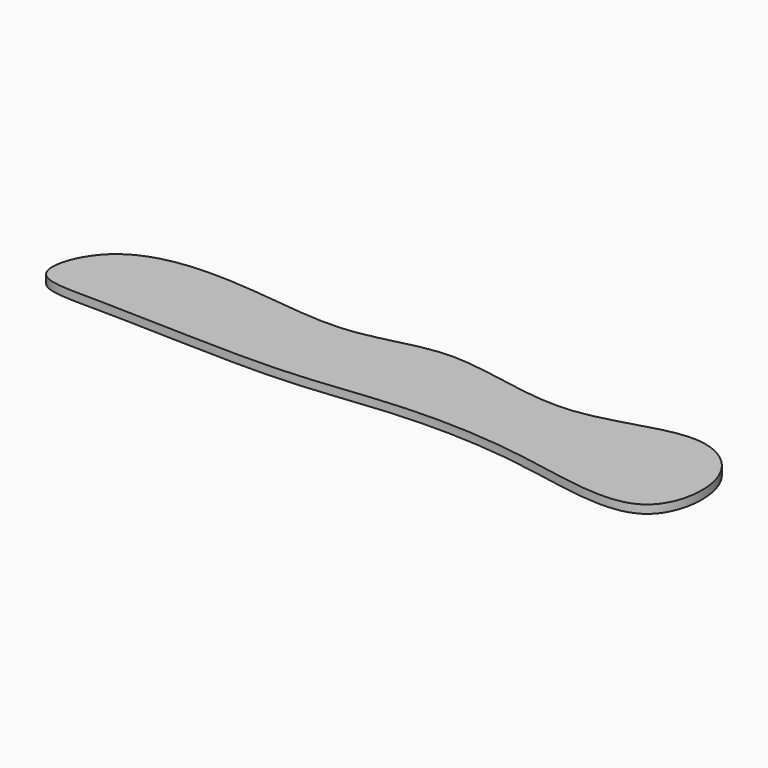
from build123d import *

# Parameters (mm, degrees)
F1_DEPTH = 190.5
F3_DEPTH = 25.4


with BuildPart() as f1:
    # F0 (on Front) → F1 (new body)
    with BuildSketch(Plane.XZ):
        with BuildLine():
            Line((-1.4379239916, 0.3391330266), (-123.6086697336, 29.1529889837))
            Line((-123.6086697336, 29.1529889837), (-125.0663191828, 22.972555497))
            Line((-125.0663191828, 22.972555497), (-2.8955734407, -5.84130046))
            Line((-2.8955734407, -5.84130046), (1.4773749068, -6.35))
            Line((1.4773749068, -6.35), (584.2, -6.35))
            Line((584.2, -6.35), (584.2, 0))
            Line((584.2, 0), (1.4773749068, 0))
            ThreePointArc((1.4773749068, 0), (0.0098958715, 0.0850681619), (-1.4379239916, 0.3391330266))
        make_face()
    extrude(amount=F1_DEPTH)

    # F2 (on Top) → F3 (intersect)
    with BuildSketch(Plane.XY):
        with BuildLine():
            add(Edge.make_bspline(
                [(93.6103910208, -73.8198235631), (111.4223616565, -57.1746445987), (173.812026806, -50.720912272), (266.1372814333, -70.7107200085), (334.9946843757, -37.680659464), (432.4729359265, -74.4506202524), (515.1980320962, -28.4380380283), (567.4424053365, -66.5141076568), (555.6833618765, -149.7582840756), (444.6431853337, -118.3353483175), (345.0116704353, -117.1199823575), (263.3982425642, -131.217081076), (131.2569333934, -123.2112342439), (67.1024769712, -126.5395128661), (80.3276667919, -86.2324491196), (93.6103910208, -73.8198235631)],
                knots=[0, 0, 0, 0, 0.0776520509, 0.1618771613, 0.235149985, 0.3208782516, 0.4014630381, 0.4629266243, 0.5280618451, 0.6131845072, 0.7013382377, 0.7814511551, 0.8829898234, 0.9420933933, 1, 1, 1, 1], degree=3))
        make_face()
    extrude(amount=-F3_DEPTH, mode=Mode.INTERSECT)


solid = f1.part
